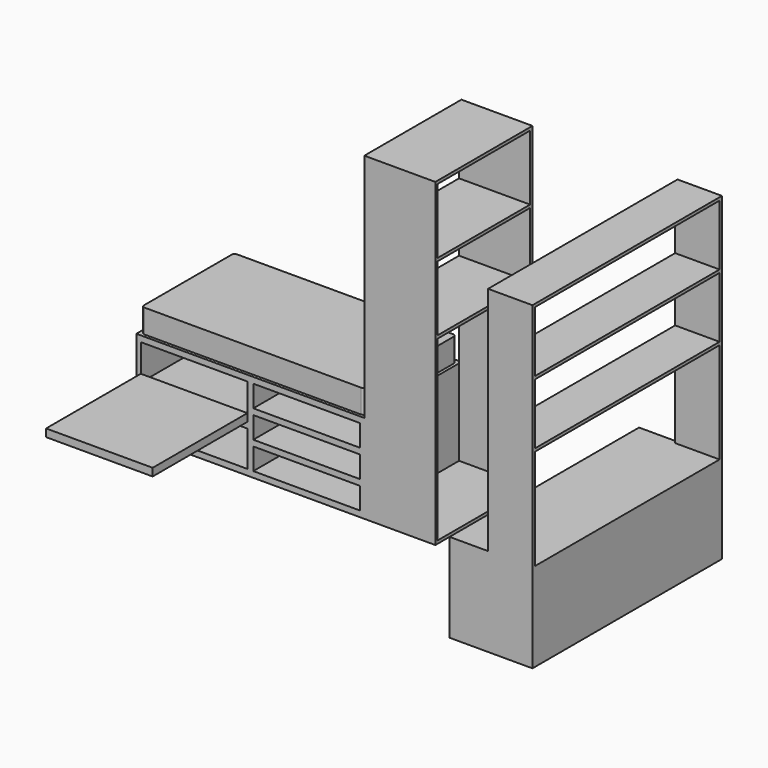
from build123d import *

# Parameters (mm, degrees)
F0_W      = 1955.8
F0_H      = 1041.4
F1_DEPTH  = 762
F3_DEPTH  = 203.2
F4_W      = 914.4
F4_H      = 304.8
F4_H_2    = 186.266667
F4_H_3    = 186.266666
F5_DEPTH  = 1016
F6_W      = 914.4
F6_H      = 65.874542
F7_DEPTH  = 1016
F8_W      = 1041.4
F8_H      = 2743.2
F8_W_2    = 990.6
F8_H_2    = 1524
F8_H_3    = 558.8
F9_DEPTH  = 609.6
F10_R     = 16.796482
F11_DEPTH = 990.6
F12_W     = 711.2
F12_H     = 2032
F13_DEPTH = 762
F14_W     = 1981.2
F14_H     = 520.7
F15_DEPTH = 381


with BuildPart() as f1:
    # F0 (on Top) → F1 (new body)
    with BuildSketch(Plane.XY):
        with Locations((977.9, -520.7)):
            Rectangle(F0_W, F0_H)
    extrude(amount=F1_DEPTH)

    # F2 (on face) → F3 (join)
    with BuildSketch(Plane.XY.offset(762)):
        with BuildLine():
            Line((1905, -25.4), (50.8, -25.4))
            ThreePointArc((50.8, -25.4), (32.839488, -32.839488), (25.4, -50.8))
            Line((25.4, -50.8), (25.4, -990.6))
            ThreePointArc((25.4, -990.6), (32.839488, -1008.560512), (50.8, -1016))
            Line((50.8, -1016), (1905, -1016))
            ThreePointArc((1905, -1016), (1922.960512, -1008.560512), (1930.4, -990.6))
            Line((1930.4, -990.6), (1930.4, -50.8))
            ThreePointArc((1930.4, -50.8), (1922.960512, -32.839488), (1905, -25.4))
        make_face()
    extrude(amount=F3_DEPTH)

    # F4 (on face) → F5 (cut)
    with BuildSketch(Plane.XZ.offset(1041.4)):
        with Locations((495.3, 558.8)):
            Rectangle(F4_W, F4_H)
        with Locations((495.3, 203.2)):
            Rectangle(F4_W, F4_H)
        with Locations((1460.5, 618.066666)):
            Rectangle(F4_W, F4_H_2)
        with Locations((1460.5, 381)):
            Rectangle(F4_W, F4_H_3)
        with Locations((1460.5, 143.933334)):
            Rectangle(F4_W, F4_H_2)
    extrude(amount=-F5_DEPTH, mode=Mode.SUBTRACT)

    # F8 (on face) → F9 (join)
    with BuildSketch(Plane.YZ.offset(1955.8)):
        with Locations((-520.7, 1371.6)):
            Rectangle(F8_W, F8_H)
        with Locations((-520.7, 787.4)):
            Rectangle(F8_W_2, F8_H_2, mode=Mode.SUBTRACT)
        with Locations((-520.7, 1854.2)):
            Rectangle(F8_W_2, F8_H_3, mode=Mode.SUBTRACT)
        with Locations((-520.7, 2438.4)):
            Rectangle(F8_W_2, F8_H_3, mode=Mode.SUBTRACT)
    extrude(amount=F9_DEPTH)

    # F10 (on face) → F11 (join, through all)
    with BuildSketch(Plane.XZ.offset(25.4)):
        with Locations((2232.316256, 1508.592963)):
            Circle(F10_R)
    extrude(amount=F11_DEPTH)


with BuildPart() as f7:
    # F6 (on face) → F7 (new body)
    with BuildSketch(Plane.XZ.offset(1041.4)):
        with Locations((495.3, 439.337271)):
            Rectangle(F6_W, F6_H)
    extrude(amount=F7_DEPTH)


with BuildPart() as f13:
    # F12 (on Top) → F13 (new body)
    with BuildSketch(Plane.XY):
        with Locations((3835.4, -1016)):
            Rectangle(F12_W, F12_H)
    extrude(amount=F13_DEPTH)

    # F14 (on face) → F15 (join)
    with BuildSketch(Plane.YZ.offset(4191)):
        Polygon((-2032, 2743.2), (-2032, 762), (-2006.6, 762), (-2006.6, 1625.6), (-25.4, 1625.6), (-25.4, 762), (0, 762), (0, 2743.2), align=None)
        with Locations((-1016, 1911.35)):
            Rectangle(F14_W, F14_H, mode=Mode.SUBTRACT)
        with Locations((-1016, 2457.45)):
            Rectangle(F14_W, F14_H, mode=Mode.SUBTRACT)
    extrude(amount=-F15_DEPTH)


solid = Compound([f1.part, f7.part, f13.part])
